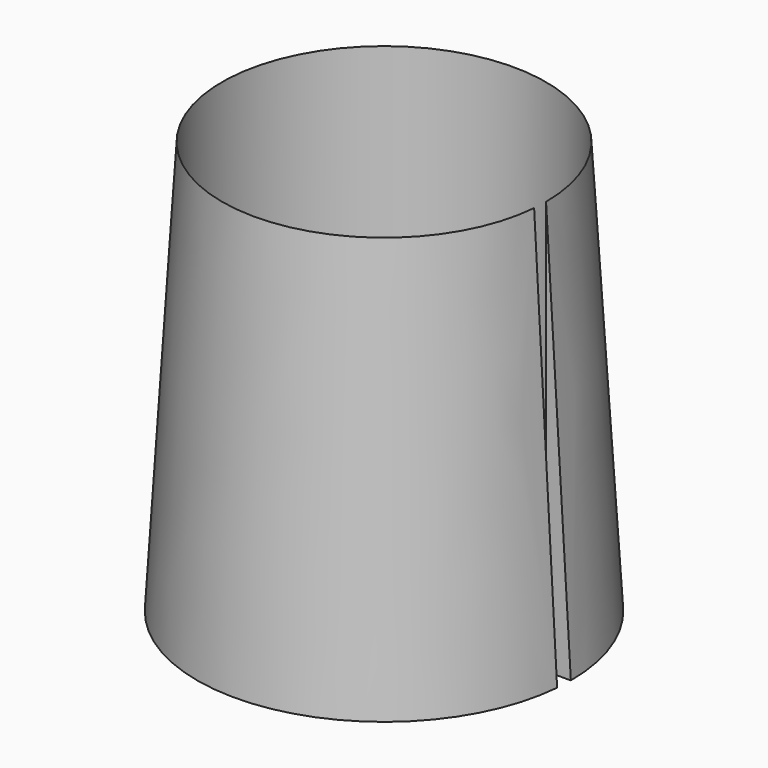
from build123d import *

# Parameters (mm, degrees)
F1_ANGLE = 355


with BuildPart() as f1:
    # F0 (on Front) → F1 (revolve)
    with BuildSketch(Plane.XZ):
        Polygon((9.8, 25), (9.8, 0), (11.3, 0), align=None)
    revolve(axis=Axis((0, 0, 14.854821), (0, 0, 1)), revolution_arc=F1_ANGLE)


solid = f1.part
